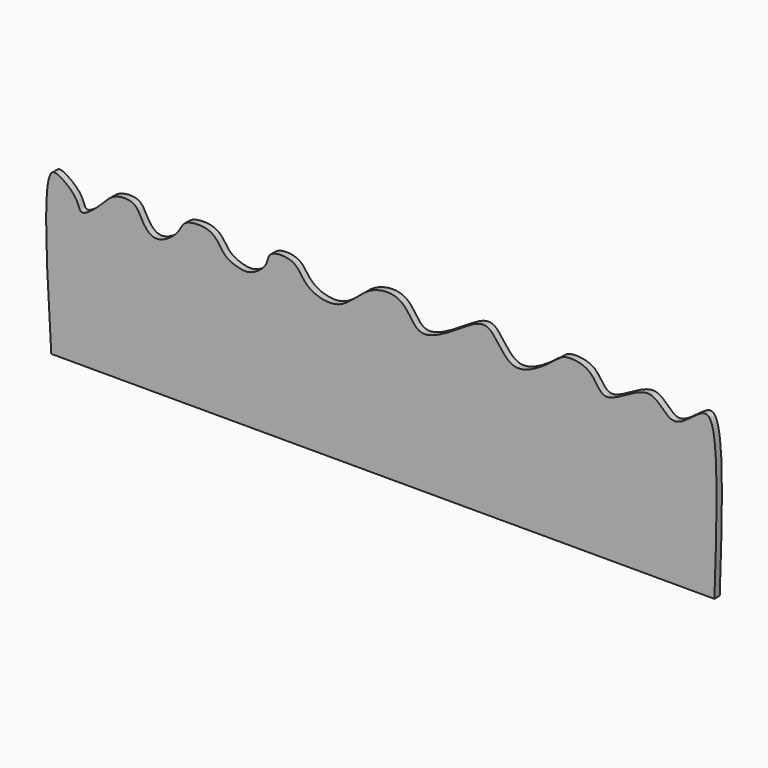
from build123d import *

# Parameters (mm, degrees)
F1_DEPTH = 3.175


with BuildPart() as f1:
    # F0 (on Front) → F1 (new body)
    with BuildSketch(Plane.XZ):
        with BuildLine():
            add(Edge.make_bspline(
                [(-158.8761979342, -9.5911044627), (-161.0285512439, 25.8326158543), (-163.6712494196, 69.3264979378), (-154.3809397987, 66.916646857), (-145.9096124501, 60.1757629246), (-145.2127763143, 52.0704873742), (-134.3247199226, 61.3018761551), (-129.5487098826, 67.5295047268), (-118.5083577364, 67.9565201246), (-115.9385964144, 61.1737194178), (-110.6793173272, 53.9196410983), (-102.3393387387, 56.9094460713), (-97.1585100675, 62.4412809935), (-95.3078526707, 67.8687006176), (-81.3308701585, 68.5558086514), (-77.1050261002, 59.9712485822), (-73.1477980131, 57.0087177337), (-66.0348098425, 54.7992979023), (-60.6296018727, 56.6758119461), (-55.0810624254, 61.4358843768), (-55.2755039917, 68.163854296), (-41.0723872088, 68.3564797939), (-37.9124971269, 57.5920818745), (-19.636825659, 52.4155800379), (-8.2383597974, 68.9924577269), (10.9306711939, 69.8999548252), (16.4658461439, 50.6027275392), (39.5177658123, 67.1719888432), (52.0524198314, 73.1613750526), (61.2331596467, 49.3304118096), (83.3531927346, 67.0158736304), (87.0777082936, 69.8921098185), (100.7127381911, 68.9023646148), (105.143810571, 52.2440882664), (128.6948516833, 74.237236219), (137.9229836478, 52.7781335989), (151.93952452, 68.3409317575), (161.1712966125, 65.2717541975), (159.7572164806, 23.7163831822), (158.6238020658, -9.5911044627)],
                knots=[0, 0, 0, 0, 0.0679284652, 0.0834037936, 0.1092632877, 0.12669687, 0.1522971261, 0.1755420191, 0.198620604, 0.2187506576, 0.2404885563, 0.2618900587, 0.283149041, 0.3006614761, 0.3272496912, 0.3501519034, 0.3673691123, 0.3878739177, 0.4063996435, 0.4266692716, 0.4444652585, 0.4697465826, 0.4945199959, 0.5247150088, 0.5582304614, 0.5887208802, 0.6170941611, 0.6547776806, 0.6811250938, 0.7132840253, 0.7496050954, 0.7680395887, 0.7942486081, 0.8202282264, 0.8566389561, 0.8855950733, 0.9160915659, 0.932745658, 1, 1, 1, 1], degree=3))
            Line((-158.8761979342, -9.5911044627), (158.6238020658, -9.5911044627))
        make_face()
    extrude(amount=F1_DEPTH)


solid = f1.part
